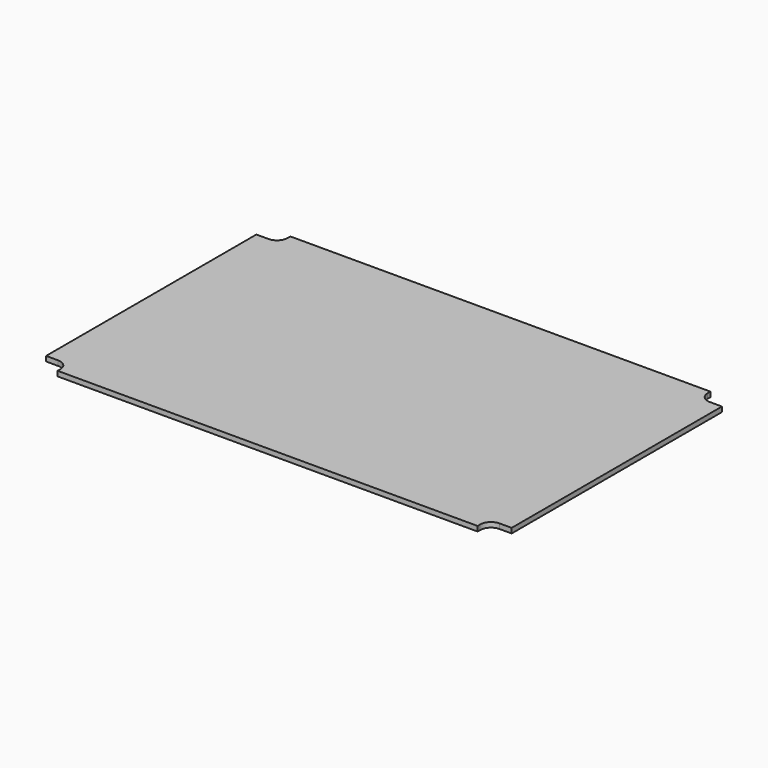
from build123d import *

# Parameters (mm, degrees)
F1_DEPTH = 1.7


with BuildPart() as f1:
    # F0 (on Top) → F1 (new body)
    with BuildSketch(Plane.XY):
        with BuildLine():
            Line((-72.18, -48.86), (-72.18, -49.995))
            Line((-72.18, -49.995), (72.15, -49.995))
            Line((72.15, -49.995), (72.15, -48.86))
            ThreePointArc((72.15, -48.86), (73.233705, -46.243705), (75.85, -45.16))
            Line((75.85, -45.16), (79.985, -45.16))
            Line((79.985, -45.16), (79.985, 45.17))
            Line((79.985, 45.17), (75.85, 45.17))
            ThreePointArc((75.85, 45.17), (73.233705, 46.253705), (72.15, 48.87))
            Line((72.15, 48.87), (72.15, 50.005))
            Line((72.15, 50.005), (0, 50.005))
            Line((0, 50.005), (-72.18, 50.005))
            Line((-72.18, 50.005), (-72.18, 48.87))
            ThreePointArc((-72.18, 48.87), (-73.263705, 46.253705), (-75.88, 45.17))
            Line((-75.88, 45.17), (-80.015, 45.17))
            Line((-80.015, 45.17), (-80.015, 0))
            Line((-80.015, 0), (-80.015, -45.16))
            Line((-80.015, -45.16), (-75.88, -45.16))
            ThreePointArc((-75.88, -45.16), (-73.263705, -46.243705), (-72.18, -48.86))
        make_face()
    extrude(amount=F1_DEPTH)


solid = f1.part
